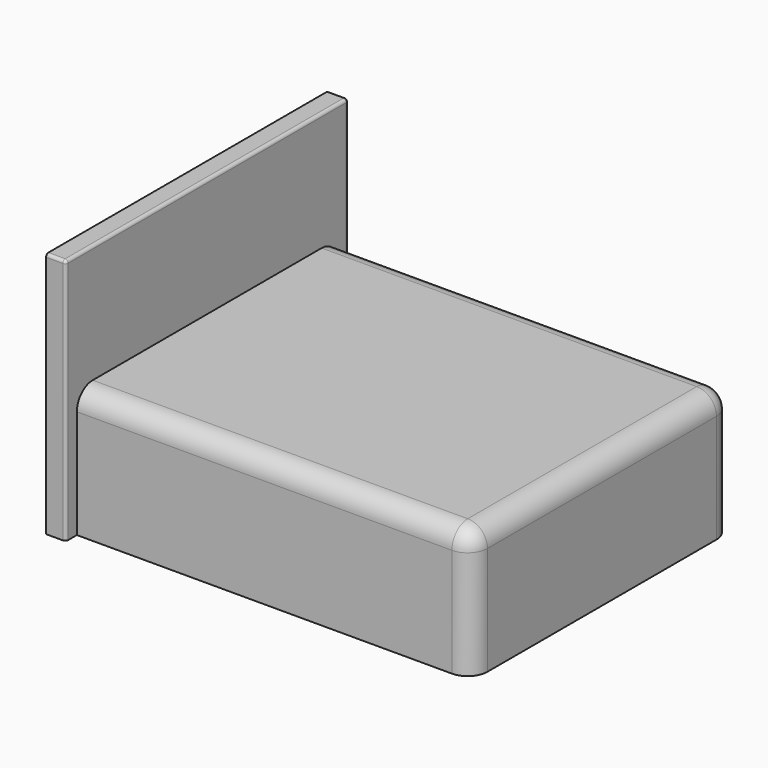
from build123d import *

# Parameters (mm, degrees)
F0_W     = 2000
F0_H     = 1650
F1_DEPTH = 650
F2_DEPTH = 1250
F3_R     = 15
F4_R     = 100


with BuildPart() as f1:
    # F0 (on Top) → F1 (new body)
    with BuildSketch(Plane.XY):
        with Locations((-1000, 825)):
            Rectangle(F0_W, F0_H)
    extrude(amount=F1_DEPTH)

    # F0 (on Top) → F2 (join)
    with BuildSketch(Plane.XY):
        Polygon((-2000, -70), (-2000, 0), (-2000, 1650), (-2000, 1720), (-2100, 1720), (-2100, -70), align=None)
    extrude(amount=F2_DEPTH)

    # F3
    f3_edges = [f1.edges().sort_by_distance(p)[0] for p in [
        (-2000, 825, 1250),
        (-2000, 1720, 625),
        (-2000, -70, 625),
        (-2050, -70, 1250),
        (-2050, 1720, 1250),
    ]]
    fillet(f3_edges, radius=F3_R)

    # F4
    f4_edges = [f1.edges().sort_by_distance(p)[0] for p in [
        (-1000, 0, 650),
        (0, 825, 650),
        (-1000, 1650, 650),
        (0, 0, 325),
        (0, 1650, 325),
    ]]
    fillet(f4_edges, radius=F4_R)


solid = f1.part
